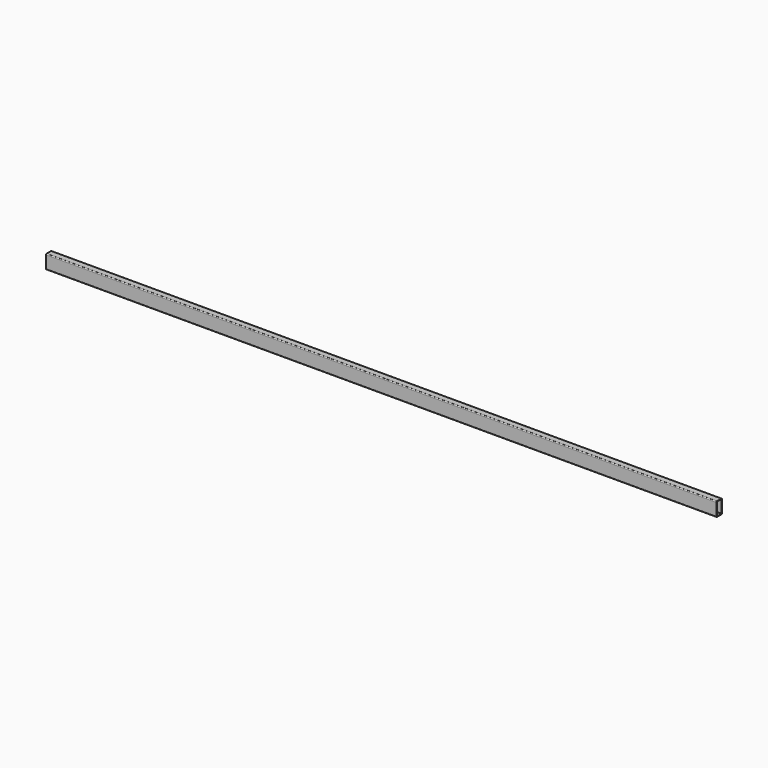
from build123d import *

# Parameters (mm, degrees)
F1_DEPTH = 7315.2


with BuildPart() as f1:
    # F0 (on Right) → F1 (new body)
    with BuildSketch(Plane.YZ):
        with BuildLine():
            ThreePointArc((38.1, 66.675), (35.310192, 73.410192), (28.575, 76.2))
            Line((28.575, 76.2), (-28.575, 76.2))
            ThreePointArc((-28.575, 76.2), (-35.310192, 73.410192), (-38.1, 66.675))
            Line((-38.1, 66.675), (-38.1, -66.675))
            ThreePointArc((-38.1, -66.675), (-35.310192, -73.410192), (-28.575, -76.2))
            Line((-28.575, -76.2), (28.575, -76.2))
            ThreePointArc((28.575, -76.2), (35.310192, -73.410192), (38.1, -66.675))
            Line((38.1, -66.675), (38.1, 66.675))
        make_face()
        with BuildLine():
            ThreePointArc((-31.750001, 66.675), (-30.820065, 68.920065), (-28.575, 69.850001))
            Line((-28.575, 69.850001), (28.575, 69.850001))
            ThreePointArc((28.575, 69.850001), (30.820065, 68.920065), (31.750001, 66.675))
            Line((31.750001, 66.675), (31.750001, -66.675))
            ThreePointArc((31.750001, -66.675), (30.820065, -68.920065), (28.575, -69.850001))
            Line((28.575, -69.850001), (-28.575, -69.850001))
            ThreePointArc((-28.575, -69.850001), (-30.820065, -68.920065), (-31.750001, -66.675))
            Line((-31.750001, -66.675), (-31.750001, 66.675))
        make_face(mode=Mode.SUBTRACT)
    extrude(amount=-F1_DEPTH)


solid = f1.part
